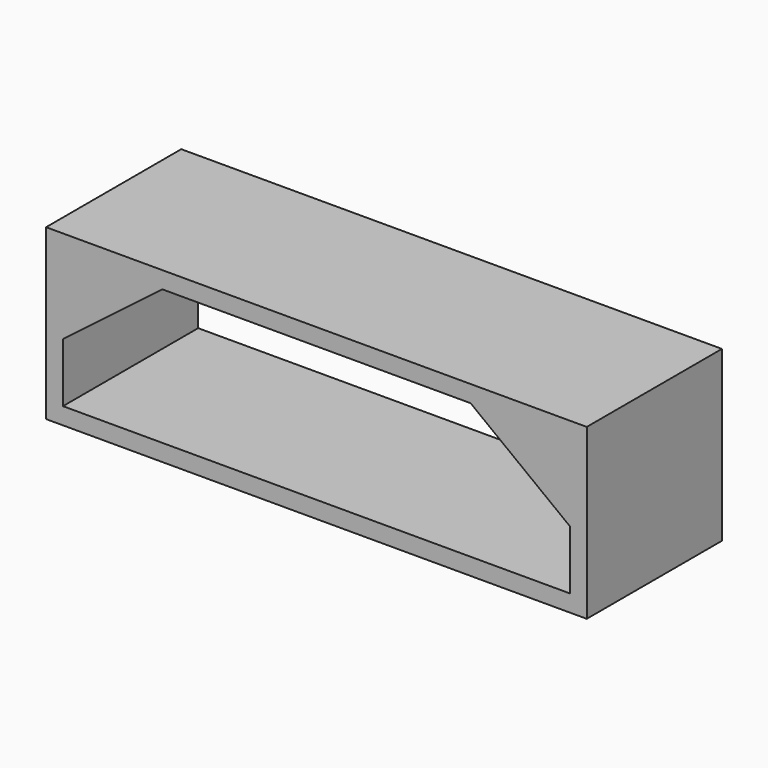
from build123d import *

# Parameters (mm, degrees)
SKETCH_W  = 64
SKETCH_H  = 20
PAD_DEPTH = 20


with BuildPart() as part:
    # Sketch → Pad (new body)
    with BuildSketch(Plane.XZ):
        with Locations((0, 8)):
            Rectangle(SKETCH_W, SKETCH_H)
        Polygon((-18.25, 16), (18.25, 16), (30, 7), (30, 0), (-30, 0), (-30, 7), align=None, mode=Mode.SUBTRACT)
    extrude(amount=PAD_DEPTH)


solid = part.part
